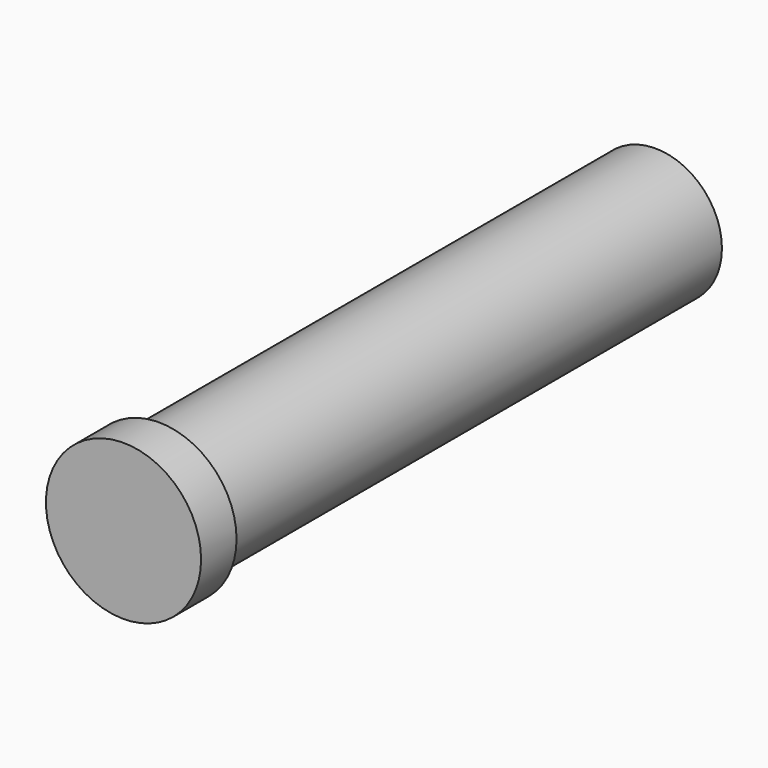
from build123d import *

# Parameters (mm, degrees)
F0_R     = 15
F1_DEPTH = 140
F2_R     = 17.5
F2_R_2   = 15
F3_DEPTH = 10


with BuildPart() as f1:
    # F0 (on Front) → F1 (new body)
    with BuildSketch(Plane.XZ):
        with Locations((-38.9989763498, 37.1725820005)):
            Circle(F0_R)
    extrude(amount=F1_DEPTH)

    # F2 (on face) → F3 (join)
    with BuildSketch(Plane.XZ.offset(140)):
        with Locations((-38.9989763498, 37.1725820005)):
            Circle(F2_R)
        with Locations((-38.9989763498, 37.1725820005)):
            Circle(F2_R_2, mode=Mode.SUBTRACT)
        with Locations((-38.9989763498, 37.1725820005)):
            Circle(F2_R_2)
    extrude(amount=F3_DEPTH)


solid = f1.part
